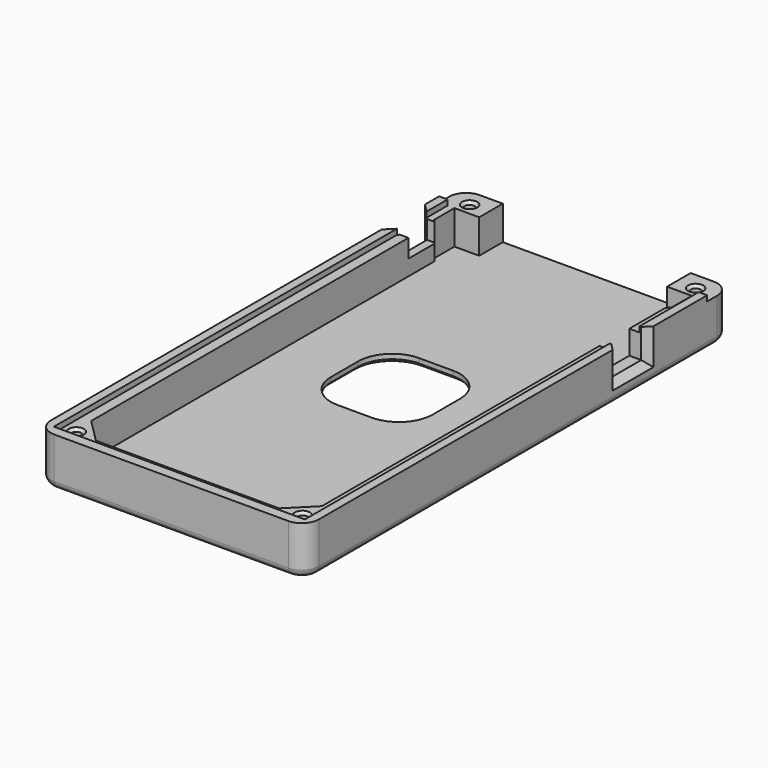
from build123d import *

# Parameters (mm, degrees)
SKETCH_W        = 79.03
SKETCH_H        = 156.85
PAD_DEPTH       = 14
POCKET_DEPTH    = 11.6
PAD001_DEPTH    = 10
SKETCH003_R     = 1.45
POCKET001_DEPTH = 12
FILLET_R        = 5
CHAMFER_SIZE    = 1
FILLET001_R     = 2
CHAMFER001_SIZE = 0.8
SKETCH004_W     = 12.65
SKETCH004_H     = 11
POCKET002_DEPTH = 8.6
SKETCH005_W     = 11.08
SKETCH005_H     = 10
POCKET003_DEPTH = 7
SKETCH006_R     = 1.45
POCKET004_DEPTH = 12
SKETCH007_W     = 92.15
SKETCH007_H     = 16.7
POCKET005_DEPTH = 1.6
CHAMFER002_SIZE = 0.8
SKETCH008_W     = 30
SKETCH008_H     = 30
POCKET006_DEPTH = 2.401
FILLET002_R     = 10
CHAMFER003_SIZE = 1
CHAMFER004_SIZE = 3
CHAMFER005_SIZE = 2


with BuildPart() as part:
    # Sketch → Pad (new body)
    with BuildSketch(Plane.XY):
        with Locations((0, -69.725)):
            Rectangle(SKETCH_W, SKETCH_H)
    extrude(amount=PAD_DEPTH)

    # Sketch001 (on Face6 of Pad) → Pocket (cut)
    with BuildSketch(Plane.XY.offset(14)):
        Polygon((-37.015, -145.15), (37.015, -145.15), (37.015, 0), (27.7, 0), (27.7, 8.7), (-27.7, 8.7), (-27.7, 0), (-37.015, 0), align=None)
    extrude(amount=-POCKET_DEPTH, mode=Mode.SUBTRACT)

    # Sketch002 (on Face6 of Pocket) → Pad001 (join)
    with BuildSketch(Plane.XY.offset(2.4)):
        Polygon((-35.015, 0), (-35.015, -7.5), (-34.015, -8.5), (-34.015, -135.15), (-27.015, -142.15), (27.015, -142.15), (34.015, -135.15), (34.015, -8.5), (35.015, -7.5), (35.015, 0), (37.015, 0), (37.015, -145.15), (-37.015, -145.15), (-37.015, 0), align=None)
    extrude(amount=PAD001_DEPTH)

    # Sketch003 (on Face24 of Pad001) → Pocket001 (cut)
    with BuildSketch(Plane.XY.offset(12.4)):
        with Locations((-33.34, -141.47)):
            Circle(SKETCH003_R)
        with Locations((33.34, -141.47)):
            Circle(SKETCH003_R)
    extrude(amount=-POCKET001_DEPTH, mode=Mode.SUBTRACT)

    # Fillet
    fillet_edges = [part.edges().sort_by_distance(p)[0] for p in [
        (39.515, 8.7, 7),
        (39.515, -148.15, 7),
        (-39.515, 8.7, 7),
        (-39.515, -148.15, 7),
    ]]
    fillet(fillet_edges, radius=FILLET_R)

    # Chamfer
    chamfer_edges = [part.edges().sort_by_distance(p)[0] for p in [
        (-38.050534, 7.235534, 0),
    ]]
    chamfer(chamfer_edges, length=CHAMFER_SIZE)

    # Fillet001
    fillet001_edges = [part.edges().sort_by_distance(p)[0] for p in [
        (-38.050534, 7.235534, 1),
    ]]
    fillet(fillet001_edges, radius=FILLET001_R)

    # Chamfer001
    chamfer001_edges = [part.edges().sort_by_distance(p)[0] for p in [
        (-34.79, -141.47, 12.4),
        (31.89, -141.47, 12.4),
    ]]
    chamfer(chamfer001_edges, length=CHAMFER001_SIZE)

    # Sketch004 (on Face20 of Chamfer001) → Pocket002 (cut)
    with BuildSketch(Plane.XY.offset(14)):
        with Locations((37.485, -27.31)):
            Rectangle(SKETCH004_W, SKETCH004_H)
    extrude(amount=-POCKET002_DEPTH, mode=Mode.SUBTRACT)

    # Sketch005 (on Face16 of Pocket002) → Pocket003 (cut)
    with BuildSketch(Plane.XY.offset(14)):
        with Locations((-36.33, -13.2)):
            Rectangle(SKETCH005_W, SKETCH005_H)
    extrude(amount=-POCKET003_DEPTH, mode=Mode.SUBTRACT)

    # Sketch006 → Pocket004 (cut)
    with BuildSketch(Plane.XY.offset(14)):
        with Locations((-33.34, 3.5)):
            Circle(SKETCH006_R)
        with Locations((33.34, 3.5)):
            Circle(SKETCH006_R)
    extrude(amount=-POCKET004_DEPTH, mode=Mode.SUBTRACT)

    # Sketch007 (on Face7 of Pocket004) → Pocket005 (cut)
    with BuildSketch(Plane.XY.offset(14)):
        with Locations((0, 8.35)):
            Rectangle(SKETCH007_W, SKETCH007_H)
    extrude(amount=-POCKET005_DEPTH, mode=Mode.SUBTRACT)

    # Chamfer002
    chamfer002_edges = [part.edges().sort_by_distance(p)[0] for p in [
        (31.89, 3.5, 12.4),
        (-34.79, 3.5, 12.4),
    ]]
    chamfer(chamfer002_edges, length=CHAMFER002_SIZE)

    # Sketch008 (on Face16 of Chamfer002) → Pocket006 (cut, through all)
    with BuildSketch(Plane.XY.offset(2.4)):
        with Locations((-1.59, -63.5)):
            Rectangle(SKETCH008_W, SKETCH008_H)
    extrude(amount=-POCKET006_DEPTH, mode=Mode.SUBTRACT)

    # Fillet002
    fillet002_edges = [part.edges().sort_by_distance(p)[0] for p in [
        (-16.59, -48.5, 1.2),
        (13.41, -48.5, 1.2),
        (13.41, -78.5, 1.2),
        (-16.59, -78.5, 1.2),
    ]]
    fillet(fillet002_edges, radius=FILLET002_R)

    # Chamfer003
    chamfer003_edges = [part.edges().sort_by_distance(p)[0] for p in [
        (-13.661068, -75.571068, 0),
    ]]
    chamfer(chamfer003_edges, length=CHAMFER003_SIZE)

    # Chamfer004
    chamfer004_edges = [part.edges().sort_by_distance(p)[0] for p in [
        (-39.515, -18.2, 10.5),
        (-39.515, -13.2, 7),
        (-39.515, -8.2, 10.5),
    ]]
    chamfer(chamfer004_edges, length=CHAMFER004_SIZE)

    # Chamfer005
    chamfer005_edges = [part.edges().sort_by_distance(p)[0] for p in [
        (39.515, -32.81, 9.7),
        (39.515, -27.31, 5.4),
        (39.515, -21.81, 9.7),
    ]]
    chamfer(chamfer005_edges, length=CHAMFER005_SIZE)


solid = part.part
